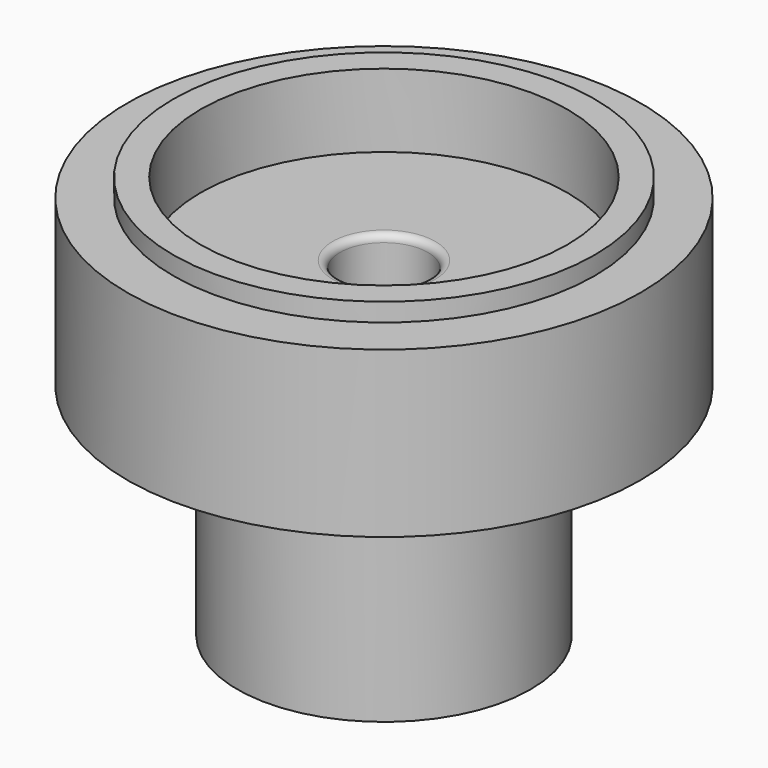
from build123d import *

# Parameters (mm, degrees)
F0_R      = 8
F1_DEPTH  = 5
F2_R      = 4
F3_DEPTH  = 6
F4_R      = 1.2
F5_DEPTH  = 9
F6_R      = 5
F7_DEPTH  = 2
F8_R      = 7.5
F8_R_2    = 6.75
F9_DEPTH  = 0.5
F10_SIZE  = 0.2
F11_R     = 0.2
F13_R     = 1.25
F14_DEPTH = 4.5
F15_R     = 8
F15_R_2   = 7
F16_DEPTH = 10
F17_R     = 7
F17_R_2   = 5.75
F18_DEPTH = 0.5


with BuildPart() as f1:
    # F0 (on Top) → F1 (new body)
    with BuildSketch(Plane.XY):
        Circle(F0_R)
    extrude(amount=F1_DEPTH)

    # F2 (on face) → F3 (join)
    with BuildSketch(Plane(origin=(0, 0, 0), x_dir=(1, 0, 0), z_dir=(0, 0, -1))):
        Circle(F2_R)
    extrude(amount=F3_DEPTH)

    # F4 (on face) → F5 (cut)
    with BuildSketch(Plane(origin=(0, 0, -6), x_dir=(1, 0, 0), z_dir=(0, 0, -1))):
        Circle(F4_R)
    extrude(amount=-F5_DEPTH, mode=Mode.SUBTRACT)

    # F6 (on face) → F7 (cut)
    with BuildSketch(Plane.XY.offset(5)):
        Circle(F6_R)
    extrude(amount=-F7_DEPTH, mode=Mode.SUBTRACT)

    # F8 (on face) → F9 (cut)
    with BuildSketch(Plane.XY.offset(5)):
        Circle(F8_R)
        Circle(F8_R_2, mode=Mode.SUBTRACT)
    extrude(amount=-F9_DEPTH, mode=Mode.SUBTRACT)

    # F10
    f10_edges = [f1.edges().sort_by_distance(p)[0] for p in [
        (-6.75, 0, 5),
    ]]
    chamfer(f10_edges, length=F10_SIZE)

    # F11
    f11_edges = [f1.edges().sort_by_distance(p)[0] for p in [
        (-6.75, 0, 4.8),
        (-1.2, 0, 3),
        (-1.2, 0, -6),
    ]]
    fillet(f11_edges, radius=F11_R)

    # F13 (on Right) → F14 (cut)
    with BuildSketch(Plane.YZ):
        with Locations((0, -3.5)):
            Circle(F13_R)
    extrude(amount=-F14_DEPTH, mode=Mode.SUBTRACT)

    # F15 (on face) → F16 (cut)
    with BuildSketch(Plane.XY.offset(5)):
        Circle(F15_R)
        Circle(F15_R_2, mode=Mode.SUBTRACT)
    extrude(amount=-F16_DEPTH, mode=Mode.SUBTRACT)

    # F17 (on face) → F18 (cut)
    with BuildSketch(Plane.XY.offset(5)):
        Circle(F17_R)
        Circle(F17_R_2, mode=Mode.SUBTRACT)
    extrude(amount=-F18_DEPTH, mode=Mode.SUBTRACT)


solid = f1.part
